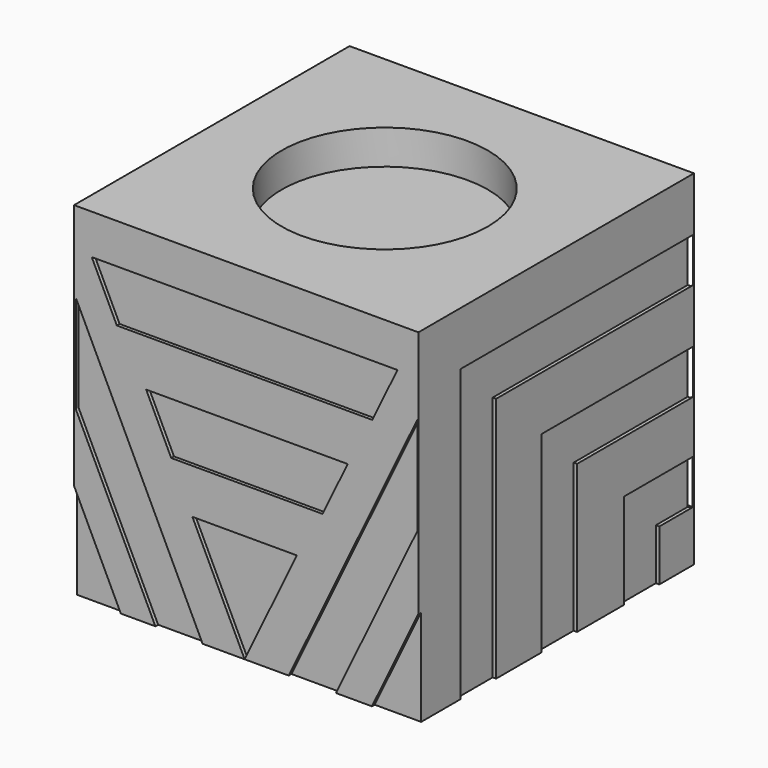
from build123d import *

# Parameters (mm, degrees)
BOX_W           = 10
BOX_H           = 10
BOX_DEPTH       = 10
POCKET_DEPTH    = 0.1
POCKET001_DEPTH = 0.1
POCKET002_DEPTH = 0.1
SKETCH003_W     = 9.983458
SKETCH003_H     = 1.354645
SKETCH003_W_2   = 9.983948
SKETCH003_W_3   = 4.247611
POCKET003_DEPTH = 0.1
SKETCH005_R     = 2.993458
POCKET004_DEPTH = 1
SKETCH004_R     = 3.024316
PAD_DEPTH       = 1.2
CHAMFER_SIZE    = 0.5


with BuildPart() as part:
    # Box → Box (new body)
    with BuildSketch(Plane.XY):
        with Locations((5, 5)):
            Rectangle(BOX_W, BOX_H)
    extrude(amount=BOX_DEPTH)

    # Sketch → Pocket (cut)
    with BuildSketch(Plane.XZ):
        Polygon((-0.013318, 2.848971), (-0.013318, -0.000633), (1.358424, -0.000633), align=None)
        Polygon((10.018128, 2.842927), (10.018128, -0.006678), (8.646385, -0.006678), align=None)
        Polygon((0.052197, 7.646552), (0.052197, 4.796948), (2.377994, -0.034572), (3.749737, -0.034572), align=None)
        Polygon((6.233827, 0), (7.605569, 0), (9.971137, 4.914136), (9.971137, 7.76374), align=None)
        Polygon((3.436299, 3.149153), (4.952238, 0), (6.468178, 3.149153), align=None)
        Polygon((2.093005, 5.965705), (2.8215, 4.452359), (7.216569, 4.452359), (7.945064, 5.965705), align=None)
        Polygon((0.513832, 8.838719), (1.242326, 7.325373), (8.661189, 7.325373), (9.389684, 8.838719), align=None)
    extrude(amount=-POCKET_DEPTH, mode=Mode.SUBTRACT)

    # Sketch001 → Pocket001 (cut)
    with BuildSketch(Plane(origin=(0, 0, 0), x_dir=(0, -1, 0), z_dir=(-1, 0, 0))):
        Polygon((-8.576619, 0), (-7.121317, 0), (-7.121317, 2.835466), (-9.956783, 2.835466), (-9.956783, 1.380163), (-8.576619, 1.380163), align=None)
        Polygon((-9.957004, 5.599077), (-9.957004, 4.143775), (-5.813229, 4.143775), (-5.813229, 0), (-4.357927, 0), (-4.357927, 5.599077), align=None)
        Polygon((-9.988727, 8.658869), (-9.988727, 7.203567), (-2.78516, 7.203567), (-2.78516, 0), (-1.329858, 0), (-1.329858, 8.658869), align=None)
    extrude(amount=-POCKET001_DEPTH, mode=Mode.SUBTRACT)

    # Sketch002 → Pocket002 (cut)
    with BuildSketch(Plane.YZ.offset(10)):
        Polygon((8.742587, 0), (8.742587, 1.482263), (9.971997, 1.482263), (9.971997, 2.769174), (7.455676, 2.769174), (7.455676, 0), align=None)
        Polygon((5.758296, 0), (5.758296, 4.296487), (9.989896, 4.296487), (9.989896, 5.583398), (4.471385, 5.583398), (4.471385, 0), align=None)
        Polygon((2.82081, 0), (2.82081, 7.153826), (9.974636, 7.153826), (9.974636, 8.440737), (1.533899, 8.440737), (1.533899, 0), align=None)
    extrude(amount=-POCKET002_DEPTH, mode=Mode.SUBTRACT)

    # Sketch003 → Pocket003 (cut)
    with BuildSketch(Plane(origin=(0, 10, 0), x_dir=(-1, 0, 0), z_dir=(0, 1, 0))):
        with Locations((-4.991729, 2.135502)):
            Rectangle(SKETCH003_W, SKETCH003_H)
        with Locations((-4.991974, 4.899971)):
            Rectangle(SKETCH003_W_2, SKETCH003_H)
        with Locations((-7.864695, 7.76353)):
            Rectangle(SKETCH003_W_3, SKETCH003_H)
        with Locations((-2.145795, 7.795235)):
            Rectangle(SKETCH003_W_3, SKETCH003_H)
    extrude(amount=-POCKET003_DEPTH, mode=Mode.SUBTRACT)

    # Sketch005 → Pocket004 (cut)
    with BuildSketch(Plane.XY.offset(10)):
        with Locations((4.99216, 5.03797)):
            Circle(SKETCH005_R)
    extrude(amount=-POCKET004_DEPTH, mode=Mode.SUBTRACT)

    # Sketch004 → Pad (new body)
    with BuildSketch(Plane(origin=(0, 0, 0), x_dir=(1, 0, 0), z_dir=(0, 0, -1))):
        with Locations((5.026122, -5.03797)):
            Circle(SKETCH004_R)
    extrude(amount=PAD_DEPTH)

    # Chamfer
    chamfer_edges = [part.edges().sort_by_distance(p)[0] for p in [
        (2.001806, 5.03797, -1.2),
    ]]
    chamfer(chamfer_edges, length=CHAMFER_SIZE)


solid = part.part
